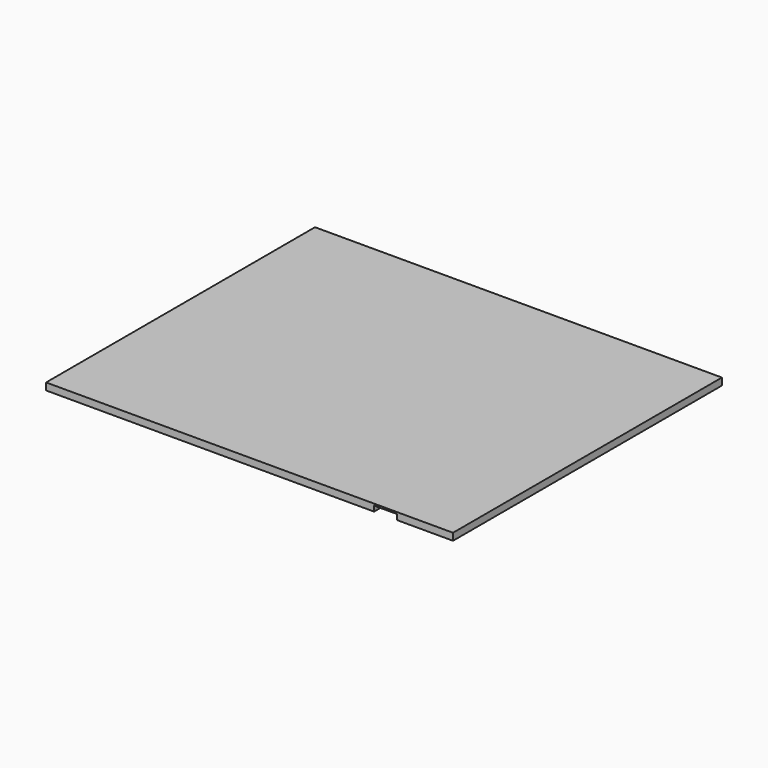
from build123d import *

# Parameters (mm, degrees)
F0_W     = 19.5166560506
F0_H     = 12.7
F0_W_2   = 16.3915466189
F0_H_2   = 13.060019505
F1_DEPTH = 5.08
F0_H_3   = 2.5634752994
F2_DEPTH = 5.08
F3_DEPTH = 3.81
F4_DEPTH = 3.81


with BuildPart() as f1:
    # F0 (on Top) → F1 (new body)
    with BuildSketch(Plane.XY):
        Polygon((-86.9376676773, 107.6591225748), (-86.9376676773, 120.3591225748), (-145.258925468, 120.3591225748), (-145.258925468, -120.9408774252), (90.1978743578, -120.9408774252), (90.1978743578, -107.8808579201), (-126.208925468, -107.8808579201), (-126.208925468, -44.3808579201), (-126.208925468, 107.6591225748), align=None)
        Polygon((146.841074532, -120.9408774252), (146.841074532, 120.3591225748), (-67.4210116267, 120.3591225748), (-67.4210116267, 107.6591225748), (127.791074532, 107.6591225748), (127.791074532, -107.8808579201), (106.5894209767, -107.8808579201), (106.5894209767, -120.9408774252), align=None)
        with Locations((-77.179339652, 114.0091225748)):
            Rectangle(F0_W, F0_H)
        with Locations((98.3936476673, -114.4108676727)):
            Rectangle(F0_W_2, F0_H_2)
    extrude(amount=F1_DEPTH)

    # F0 (on Top) → F2 (join)
    with BuildSketch(Plane.XY):
        Polygon((127.791074532, 107.6591225748), (-67.4210116267, 107.6591225748), (-67.4210116267, 105.0956472754), (-86.9376676773, 105.0956472754), (-86.9376676773, 107.6591225748), (-126.208925468, 107.6591225748), (-126.208925468, -44.3808579201), (-126.208925468, -107.8808579201), (90.1978743578, -107.8808579201), (106.5894209767, -107.8808579201), (127.791074532, -107.8808579201), align=None)
        with Locations((-77.179339652, 106.3773849251)):
            Rectangle(F0_W, F0_H_3)
    extrude(amount=F2_DEPTH)

    # F0 (on Top) → F3 (cut)
    with BuildSketch(Plane.XY):
        Polygon((127.791074532, 107.6591225748), (-67.4210116267, 107.6591225748), (-67.4210116267, 105.0956472754), (-86.9376676773, 105.0956472754), (-86.9376676773, 107.6591225748), (-126.208925468, 107.6591225748), (-126.208925468, -44.3808579201), (-126.208925468, -107.8808579201), (90.1978743578, -107.8808579201), (106.5894209767, -107.8808579201), (127.791074532, -107.8808579201), align=None)
        with Locations((-77.179339652, 106.3773849251)):
            Rectangle(F0_W, F0_H_3)
    extrude(amount=F3_DEPTH, mode=Mode.SUBTRACT)

    # F0 (on Top) → F4 (cut)
    with BuildSketch(Plane.XY):
        with Locations((98.3936476673, -114.4108676727)):
            Rectangle(F0_W_2, F0_H_2)
        with Locations((-77.179339652, 114.0091225748)):
            Rectangle(F0_W, F0_H)
    extrude(amount=F4_DEPTH, mode=Mode.SUBTRACT)


solid = f1.part
